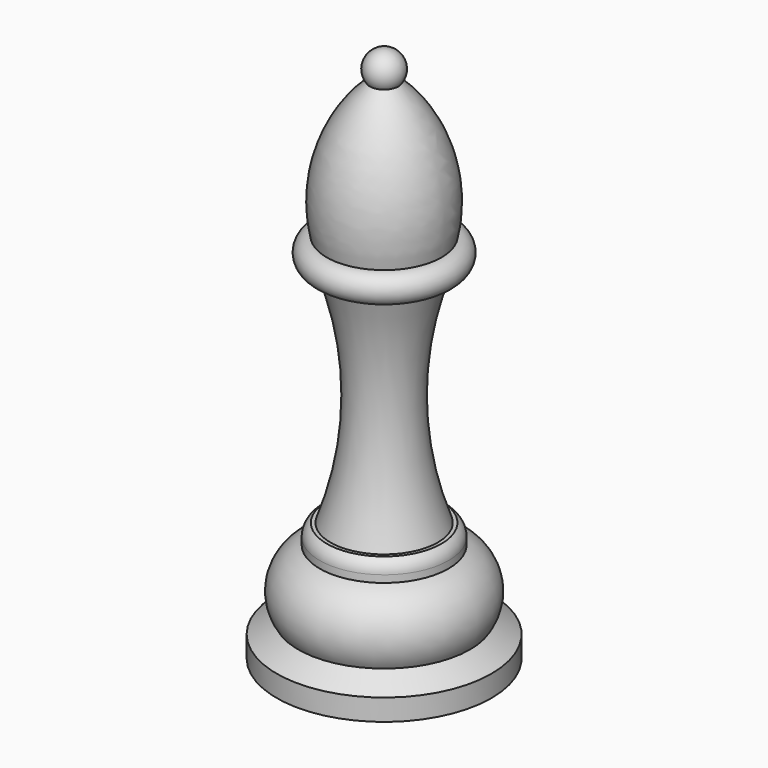
from build123d import *


with BuildPart() as f1:
    # F0 (on Front) → F1 (revolve)
    with BuildSketch(Plane.XZ):
        with BuildLine():
            ThreePointArc((2, -4), (2.236068, -1.381966), (0, 0))
            Line((0, 0), (0, -75))
            Line((0, -75), (15, -75))
            Line((15, -75), (15, -72))
            Line((15, -72), (12.002306, -70))
            ThreePointArc((12.002306, -70), (12.689754, -64.782464), (9, -61.03))
            Line((9, -61.03), (9, -60.03))
            ThreePointArc((9, -60.03), (8.732051, -59.03), (8, -58.297949))
            Line((8, -58.297949), (7.5, -58.297949))
            ThreePointArc((7.5, -58.297949), (4.666942, -42.583339), (7.5, -26.868728))
            Line((7.5, -26.868728), (8.83642, -26.868728))
            ThreePointArc((8.83642, -26.868728), (9.940865, -24.645891), (8.031478, -23.06))
            ThreePointArc((8.031478, -23.06), (7.56805, -12.722329), (2, -4))
        make_face()
    revolve(axis=Axis((0, 0, -37.5), (0, 0, -1)))


solid = f1.part
